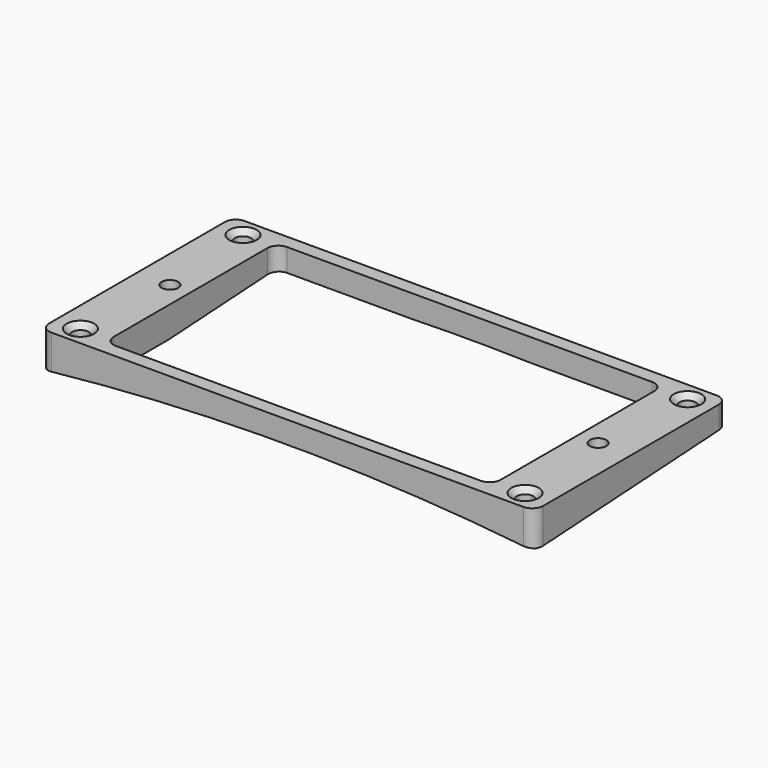
from build123d import *

# Parameters (mm, degrees)
F0_W     = 90
F0_H     = 44
F0_R     = 1.5
F0_W_2   = 70.5
F0_H_2   = 39
F1_DEPTH = 6.5
F3_DEPTH = 44.001
F4_SIZE  = 1
F6_R     = 2
F7_DEPTH = 90.001


with BuildPart() as f1:
    # F0 (on Top) → F1 (new body)
    with BuildSketch(Plane.XY):
        with Locations((18.801508, 8.04563)):
            Rectangle(F0_W, F0_H)
        with Locations((-21.698492, -10.45437)):
            Circle(F0_R, mode=Mode.SUBTRACT)
        with Locations((-20.198492, 8.04563)):
            Circle(F0_R, mode=Mode.SUBTRACT)
        with Locations((59.301508, -10.45437)):
            Circle(F0_R, mode=Mode.SUBTRACT)
        with Locations((57.801508, 8.04563)):
            Circle(F0_R, mode=Mode.SUBTRACT)
        with Locations((18.801508, 8.04563)):
            Rectangle(F0_W_2, F0_H_2, mode=Mode.SUBTRACT)
        with Locations((-21.698492, 26.54563)):
            Circle(F0_R, mode=Mode.SUBTRACT)
        with Locations((59.301508, 26.54563)):
            Circle(F0_R, mode=Mode.SUBTRACT)
    extrude(amount=F1_DEPTH)

    # F2 (on face) → F3 (cut, through all)
    with BuildSketch(Plane.XZ.offset(13.95437)):
        with BuildLine():
            ThreePointArc((63.801508, 0), (18.801508, 2.5), (-26.198492, 0))
            Line((-26.198492, 0), (63.801508, 0))
        make_face()
    extrude(amount=-F3_DEPTH, mode=Mode.SUBTRACT)

    # F4
    f4_edges = [f1.edges().sort_by_distance(p)[0] for p in [
        (57.801508, 26.54563, 6.5),
        (-23.198492, 26.54563, 6.5),
        (-23.198492, -10.45437, 6.5),
        (57.801508, -10.45437, 6.5),
    ]]
    chamfer(f4_edges, length=F4_SIZE)

    # F6
    f6_edges = [f1.edges().sort_by_distance(p)[0] for p in [
        (-16.448492, 27.54563, 3.733901),
        (54.051508, 27.54563, 3.733901),
        (54.051508, -11.45437, 3.733901),
        (-16.448492, -11.45437, 3.733901),
        (63.801508, 30.04563, 3.25),
        (63.801508, -13.95437, 3.25),
        (-26.198492, 30.04563, 3.25),
        (-26.198492, -13.95437, 3.25),
    ]]
    fillet(f6_edges, radius=F6_R)

    # F5 (on face) → F7 (cut, through all)
    with BuildSketch(Plane(origin=(-26.198492, 0, 0), x_dir=(0, -1, 0), z_dir=(-1, 0, 0))):
        Polygon((13.95437, 0), (-30.04563, 2.5), (-30.04563, 0), align=None)
    extrude(amount=-F7_DEPTH, mode=Mode.SUBTRACT)


solid = f1.part
